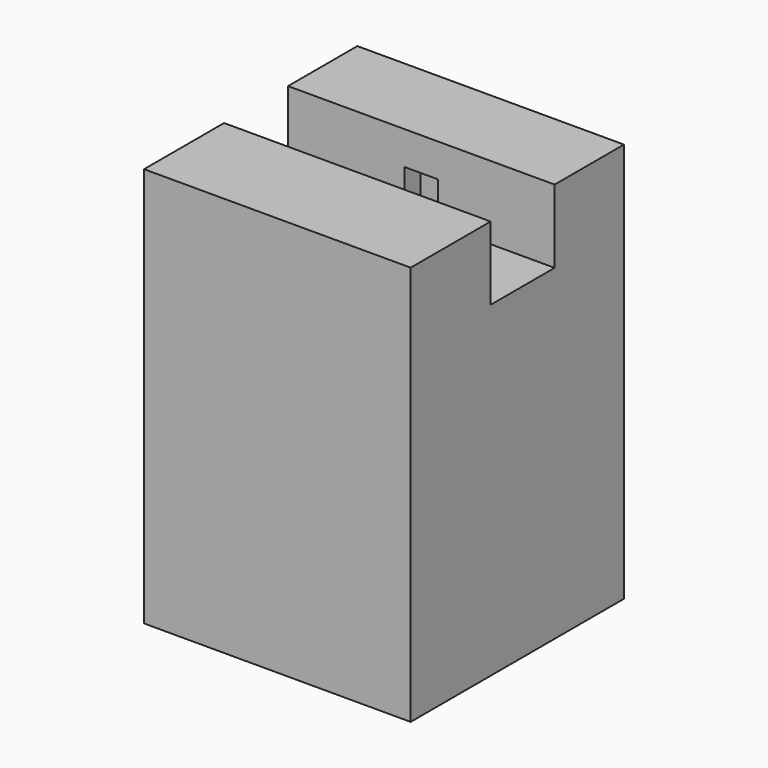
from build123d import *

# Parameters (mm, degrees)
F0_W        = 400
F0_H        = 600
F1_DEPTH    = 200
F2_W        = 30
F2_H        = 50
F3_DEPTH    = 25
F1_FACE_W   = 400
F1_FACE_H   = 600
F1_FACE_W_2 = 30
F1_FACE_H_2 = 50
F4_DEPTH    = 25
F5_W        = 400
F5_H        = 600
F6_DEPTH    = 175
F8_DEPTH    = 400.001
F9_W        = 184
F9_H        = 92
F10_DEPTH   = 1


with BuildPart() as f1:
    # F0 (on Right) → F1 (new body)
    with BuildSketch(Plane.YZ):
        with Locations((200, 300)):
            Rectangle(F0_W, F0_H)
    extrude(amount=F1_DEPTH)

    # F2 (on face) → F3 (cut)
    with BuildSketch(Plane.YZ.offset(200)):
        with Locations((285, 525)):
            Rectangle(F2_W, F2_H)
    extrude(amount=-F3_DEPTH, mode=Mode.SUBTRACT)

    # F1_face (on face) → F4 (join)
    with BuildSketch(Plane(origin=(200, 200, 300), x_dir=(0, 1, 0), z_dir=(1, 0, 0))):
        Rectangle(F1_FACE_W, F1_FACE_H)
        with Locations((85, 225)):
            Rectangle(F1_FACE_W_2, F1_FACE_H_2, mode=Mode.SUBTRACT)
    extrude(amount=F4_DEPTH)

    # F5 (on face) → F6 (join)
    with BuildSketch(Plane.YZ.offset(225)):
        with Locations((200, 300)):
            Rectangle(F5_W, F5_H)
        with Locations((200, 300)):
            Rectangle(F5_W, F5_H)
    extrude(amount=F6_DEPTH)

    # F7 (on face) → F8 (cut, through all)
    with BuildSketch(Plane.YZ.offset(400)):
        Polygon((270, 550), (270, 600), (150, 600), (150, 490), (270, 490), (270, 500), align=None)
    extrude(amount=-F8_DEPTH, mode=Mode.SUBTRACT)

    # F9 (on face) → F10 (cut)
    with BuildSketch(Plane(origin=(0, 150, 0), x_dir=(-1, 0, 0), z_dir=(0, 1, 0))):
        with Locations((-200, 536)):
            Rectangle(F9_W, F9_H)
    extrude(amount=-F10_DEPTH, mode=Mode.SUBTRACT)


solid = f1.part
